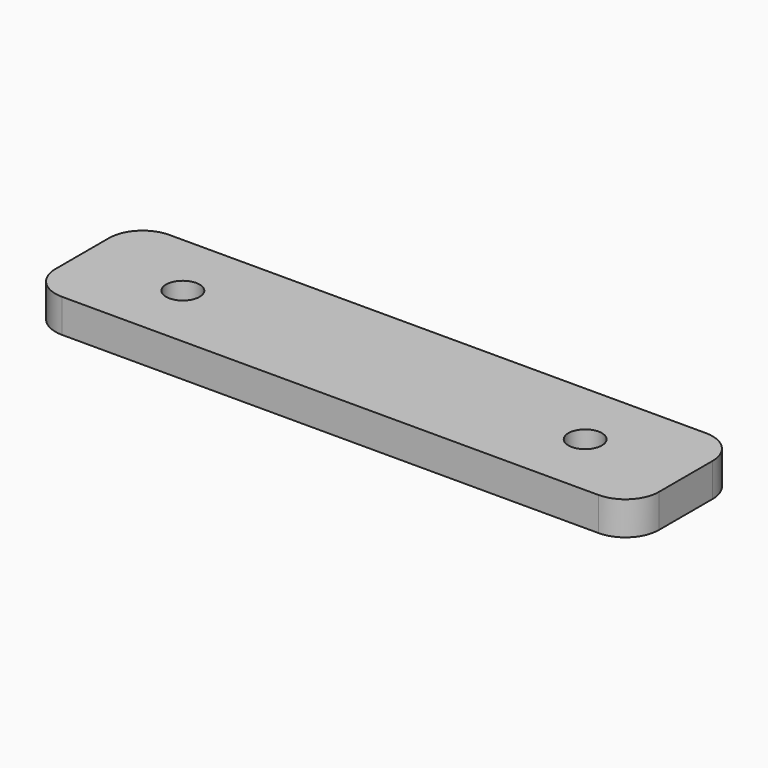
from build123d import *

# Parameters (mm, degrees)
F0_W     = 90
F0_H     = 20
F1_DEPTH = 5
F2_R     = 2.5
F3_DEPTH = 5
F4_R     = 5
F5_SCALE = 0.5


with BuildPart() as f1:
    # F0 (on Top) → F1 (new body)
    with BuildSketch(Plane.XY):
        Rectangle(F0_W, F0_H)
    extrude(amount=F1_DEPTH)

    # F2 (on face) → F3 (cut)
    with BuildSketch(Plane.XY.offset(5)):
        with Locations((-30, 0)):
            Circle(F2_R)
        with Locations((30, 0)):
            Circle(F2_R)
    extrude(amount=-F3_DEPTH, mode=Mode.SUBTRACT)

    # F4
    f4_edges = [f1.edges().sort_by_distance(p)[0] for p in [
        (-45, 10, 2.5),
        (-45, -10, 2.5),
        (45, -10, 2.5),
        (45, 10, 2.5),
    ]]
    fillet(f4_edges, radius=F4_R)


with BuildPart() as f1_1:
    # F5: moved
    add(f1.part.scale(F5_SCALE))


solid = f1_1.part
